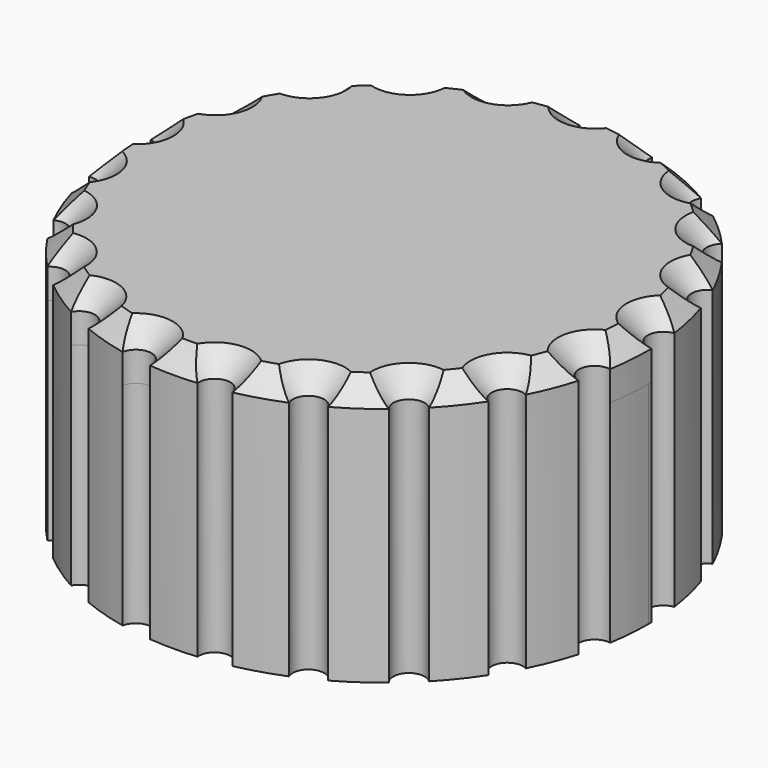
from build123d import *

# Parameters (mm, degrees)
F0_R     = 2.75
F1_DEPTH = 10
F2_R     = 2.75
F3_DEPTH = 2.4
F4_SIZE  = 1
F5_R     = 8
F5_R_2   = 5
F6_DEPTH = 1


with BuildPart() as f1:
    # F0 (on Top) → F1 (new body)
    with BuildSketch(Plane.XY):
        with BuildLine():
            ThreePointArc((12.3302707617, -2.0529059754), (12.4574954249, -1.0299552124), (12.5, 0))
            ThreePointArc((12.5, 0), (12.4996303905, 0.0961254498), (12.4985215837, 0.192245215))
            ThreePointArc((12.4985215837, 0.192245215), (11.7244882678, 0.8786289302), (12.3875760867, 1.6727099859))
            ThreePointArc((12.3875760867, 1.6727099859), (12.1865989023, 2.7815116745), (11.886582066, 3.8677082087))
            ThreePointArc((11.886582066, 3.8677082087), (10.9446217269, 4.2954474963), (11.3441909144, 5.2496983245))
            ThreePointArc((11.3441909144, 5.2496983245), (10.8253175473, 6.25), (10.2184675684, 7.199508355))
            ThreePointArc((10.2184675684, 7.199508355), (9.1922775159, 7.3305967021), (9.2928245962, 8.360227929))
            ThreePointArc((9.2928245962, 8.360227929), (8.5021592221, 9.1631483979), (7.6423973843, 9.8916005894))
            ThreePointArc((7.6423973843, 9.8916005894), (6.6231591079, 9.7143902212), (6.4157500318, 10.7279145937))
            ThreePointArc((6.4157500318, 10.7279145937), (5.423546739, 11.2621108488), (4.3872666545, 11.7047807029))
            ThreePointArc((4.3872666545, 11.7047807029), (3.465543948, 11.2350175382), (2.9686079219, 12.1423789681))
            ThreePointArc((2.9686079219, 12.1423789681), (1.8630283272, 12.3603853278), (0.7423080293, 12.4779396853))
            ThreePointArc((0.7423080293, 12.4779396853), (0, 11.7573642428), (-0.7423080293, 12.4779396853))
            ThreePointArc((-0.7423080293, 12.4779396853), (-1.8630283272, 12.3603853278), (-2.9686079219, 12.1423789681))
            ThreePointArc((-2.9686079219, 12.1423789681), (-2.9485354311, 12.0444238134), (-2.941803923, 11.9446600723))
            ThreePointArc((-2.941803923, 11.9446600723), (-3.5628596128, 11.2120441054), (-4.3872666545, 11.7047807029))
            ThreePointArc((-4.3872666545, 11.7047807029), (-5.423546739, 11.2621108488), (-6.4157500318, 10.7279145937))
            ThreePointArc((-6.4157500318, 10.7279145937), (-6.3286849332, 10.5363149784), (-6.2988649686, 10.3279846789))
            ThreePointArc((-6.2988649686, 10.3279846789), (-6.8120878634, 9.6216719958), (-7.6423973843, 9.8916005894))
            ThreePointArc((-7.6423973843, 9.8916005894), (-8.5021592221, 9.1631483979), (-9.2928245962, 8.360227929))
            ThreePointArc((-9.2928245962, 8.360227929), (-9.0990893217, 8.1058656265), (-9.0302577737, 7.7936225232))
            ThreePointArc((-9.0302577737, 7.7936225232), (-9.4407725777, 7.1293909821), (-10.2184675684, 7.199508355))
            ThreePointArc((-10.2184675684, 7.199508355), (-10.8253175473, 6.25), (-11.3441909144, 5.2496983245))
            ThreePointArc((-11.3441909144, 5.2496983245), (-11.0161809049, 4.9759437166), (-10.8932861009, 4.5667628046))
            ThreePointArc((-10.8932861009, 4.5667628046), (-11.2085118474, 3.9594502404), (-11.886582066, 3.8677082087))
            ThreePointArc((-11.886582066, 3.8677082087), (-12.1865989023, 2.7815116745), (-12.3875760867, 1.6727099859))
            ThreePointArc((-12.3875760867, 1.6727099859), (-11.9132137564, 1.4311044653), (-11.7224117076, 0.9341261698))
            ThreePointArc((-11.7224117076, 0.9341261698), (-11.9518960299, 0.3972989418), (-12.4985215837, 0.192245215))
            ThreePointArc((-12.4985215837, 0.192245215), (-12.4650474648, -0.9341261698), (-12.3302707617, -2.0529059754))
            ThreePointArc((-12.3302707617, -2.0529059754), (-11.7149994919, -2.2078376695), (-11.4439631451, -2.7815116745))
            ThreePointArc((-11.4439631451, -2.7815116745), (-11.5991689984, -3.2358617331), (-11.9999126097, -3.5002996098))
            ThreePointArc((-11.9999126097, -3.5002996098), (-11.6359218581, -4.5667628046), (-11.177366769, -5.5961122319))
            ThreePointArc((-11.177366769, -5.5961122319), (-10.4444871864, -5.6124452149), (-10.0826817901, -6.25))
            ThreePointArc((-10.0826817901, -6.25), (-10.1767313877, -6.6117234598), (-10.4350587397, -6.8818274534))
            ThreePointArc((-10.4350587397, -6.8818274534), (-9.7728935309, -7.7936225232), (-9.0313046878, -8.6420793583))
            ThreePointArc((-9.0313046878, -8.6420793583), (-8.2206050317, -8.4759547529), (-7.759523465, -9.1631483979))
            ThreePointArc((-7.759523465, -9.1631483979), (-7.8069051499, -9.4241649545), (-7.9430041071, -9.6518747274))
            ThreePointArc((-7.9430041071, -9.6518747274), (-7.0415007258, -10.3279846789), (-6.0827715519, -10.9201598087))
            ThreePointArc((-6.0827715519, -10.9201598087), (-5.2475581744, -10.5406291145), (-4.6809109818, -11.2621108488))
            ThreePointArc((-4.6809109818, -11.2621108488), (-4.6971555811, -11.4165898236), (-4.7451787024, -11.5643105753))
            ThreePointArc((-4.7451787024, -11.5643105753), (-3.6844396801, -11.9446600723), (-2.5937574698, -12.2279361377))
            ThreePointArc((-2.5937574698, -12.2279361377), (-1.7965366822, -11.6207322139), (-1.12039257, -12.3603853278))
            ThreePointArc((-1.12039257, -12.3603853278), (-1.121726462, -12.4048759158), (-1.125723346, -12.4492066795))
            ThreePointArc((-1.125723346, -12.4492066795), (0, -12.5), (1.125723346, -12.4492066795))
            ThreePointArc((1.125723346, -12.4492066795), (1.752344211, -11.6260441985), (2.5937574698, -12.2279361377))
            ThreePointArc((2.5937574698, -12.2279361377), (3.6844396801, -11.9446600723), (4.7451787024, -11.5643105753))
            ThreePointArc((4.7451787024, -11.5643105753), (5.1013291598, -10.5930191514), (6.0827715519, -10.9201598087))
            ThreePointArc((6.0827715519, -10.9201598087), (7.0415007258, -10.3279846789), (7.9430041071, -9.6518747274))
            ThreePointArc((7.9430041071, -9.6518747274), (7.997038626, -8.618757866), (9.0313046878, -8.6420793583))
            ThreePointArc((9.0313046878, -8.6420793583), (9.7728935309, -7.7936225232), (10.4350587397, -6.8818274534))
            ThreePointArc((10.4350587397, -6.8818274534), (10.1821761158, -5.8786821214), (11.177366769, -5.5961122319))
            ThreePointArc((11.177366769, -5.5961122319), (11.6359218581, -4.5667628046), (11.9999126097, -3.5002996098))
            ThreePointArc((11.9999126097, -3.5002996098), (11.462582574, -2.6162596722), (12.3302707617, -2.0529059754))
        make_face()
        Circle(F0_R, mode=Mode.SUBTRACT)
    extrude(amount=F1_DEPTH)

    # F2 (on face) → F3 (join)
    with BuildSketch(Plane.XY.offset(10)):
        with BuildLine():
            ThreePointArc((6.4157500318, 10.7279145937), (5.423546739, 11.2621108488), (4.3872666545, 11.7047807029))
            ThreePointArc((4.3872666545, 11.7047807029), (3.465543948, 11.2350175382), (2.9686079219, 12.1423789681))
            ThreePointArc((2.9686079219, 12.1423789681), (1.8630283272, 12.3603853278), (0.7423080293, 12.4779396853))
            ThreePointArc((0.7423080293, 12.4779396853), (0, 11.7573642428), (-0.7423080293, 12.4779396853))
            ThreePointArc((-0.7423080293, 12.4779396853), (-1.8630283272, 12.3603853278), (-2.9686079219, 12.1423789681))
            ThreePointArc((-2.9686079219, 12.1423789681), (-3.465543948, 11.2350175382), (-4.3872666545, 11.7047807029))
            ThreePointArc((-4.3872666545, 11.7047807029), (-5.423546739, 11.2621108488), (-6.4157500318, 10.7279145937))
            ThreePointArc((-6.4157500318, 10.7279145937), (-6.6231591079, 9.7143902212), (-7.6423973843, 9.8916005894))
            ThreePointArc((-7.6423973843, 9.8916005894), (-8.5021592221, 9.1631483979), (-9.2928245962, 8.360227929))
            ThreePointArc((-9.2928245962, 8.360227929), (-9.1922775159, 7.3305967021), (-10.2184675684, 7.199508355))
            ThreePointArc((-10.2184675684, 7.199508355), (-10.8253175473, 6.25), (-11.3441909144, 5.2496983245))
            ThreePointArc((-11.3441909144, 5.2496983245), (-10.9446217269, 4.2954474963), (-11.886582066, 3.8677082087))
            ThreePointArc((-11.886582066, 3.8677082087), (-12.1865989023, 2.7815116745), (-12.3875760867, 1.6727099859))
            ThreePointArc((-12.3875760867, 1.6727099859), (-11.7244882678, 0.8786289302), (-12.4985215837, 0.192245215))
            ThreePointArc((-12.4985215837, 0.192245215), (-12.4650474648, -0.9341261698), (-12.3302707617, -2.0529059754))
            ThreePointArc((-12.3302707617, -2.0529059754), (-11.462582574, -2.6162596722), (-11.9999126097, -3.5002996098))
            ThreePointArc((-11.9999126097, -3.5002996098), (-11.6359218581, -4.5667628046), (-11.177366769, -5.5961122319))
            ThreePointArc((-11.177366769, -5.5961122319), (-10.1821761158, -5.8786821214), (-10.4350587397, -6.8818274534))
            ThreePointArc((-10.4350587397, -6.8818274534), (-9.7728935309, -7.7936225232), (-9.0313046878, -8.6420793583))
            ThreePointArc((-9.0313046878, -8.6420793583), (-7.997038626, -8.618757866), (-7.9430041071, -9.6518747274))
            ThreePointArc((-7.9430041071, -9.6518747274), (-7.0415007258, -10.3279846789), (-6.0827715519, -10.9201598087))
            ThreePointArc((-6.0827715519, -10.9201598087), (-5.1013291598, -10.5930191514), (-4.7451787024, -11.5643105753))
            ThreePointArc((-4.7451787024, -11.5643105753), (-3.6844396801, -11.9446600723), (-2.5937574698, -12.2279361377))
            ThreePointArc((-2.5937574698, -12.2279361377), (-1.752344211, -11.6260441985), (-1.125723346, -12.4492066795))
            ThreePointArc((-1.125723346, -12.4492066795), (0, -12.5), (1.125723346, -12.4492066795))
            ThreePointArc((1.125723346, -12.4492066795), (1.752344211, -11.6260441985), (2.5937574698, -12.2279361377))
            ThreePointArc((2.5937574698, -12.2279361377), (3.6844396801, -11.9446600723), (4.7451787024, -11.5643105753))
            ThreePointArc((4.7451787024, -11.5643105753), (5.1013291598, -10.5930191514), (6.0827715519, -10.9201598087))
            ThreePointArc((6.0827715519, -10.9201598087), (7.0415007258, -10.3279846789), (7.9430041071, -9.6518747274))
            ThreePointArc((7.9430041071, -9.6518747274), (7.997038626, -8.618757866), (9.0313046878, -8.6420793583))
            ThreePointArc((9.0313046878, -8.6420793583), (9.7728935309, -7.7936225232), (10.4350587397, -6.8818274534))
            ThreePointArc((10.4350587397, -6.8818274534), (10.1821761158, -5.8786821214), (11.177366769, -5.5961122319))
            ThreePointArc((11.177366769, -5.5961122319), (11.6359218581, -4.5667628046), (11.9999126097, -3.5002996098))
            ThreePointArc((11.9999126097, -3.5002996098), (11.462582574, -2.6162596722), (12.3302707617, -2.0529059754))
            ThreePointArc((12.3302707617, -2.0529059754), (12.4650474648, -0.9341261698), (12.4985215837, 0.192245215))
            ThreePointArc((12.4985215837, 0.192245215), (11.7244882678, 0.8786289302), (12.3875760867, 1.6727099859))
            ThreePointArc((12.3875760867, 1.6727099859), (12.1865989023, 2.7815116745), (11.886582066, 3.8677082087))
            ThreePointArc((11.886582066, 3.8677082087), (10.9446217269, 4.2954474963), (11.3441909144, 5.2496983245))
            ThreePointArc((11.3441909144, 5.2496983245), (10.8253175473, 6.25), (10.2184675684, 7.199508355))
            ThreePointArc((10.2184675684, 7.199508355), (9.1922775159, 7.3305967021), (9.2928245962, 8.360227929))
            ThreePointArc((9.2928245962, 8.360227929), (8.5021592221, 9.1631483979), (7.6423973843, 9.8916005894))
            ThreePointArc((7.6423973843, 9.8916005894), (6.6231591079, 9.7143902212), (6.4157500318, 10.7279145937))
        make_face()
        Circle(F2_R, mode=Mode.SUBTRACT)
        Circle(F2_R)
    extrude(amount=F3_DEPTH)

    # F4
    f4_edges = [f1.edges().sort_by_distance(p)[0] for p in [
        (10.825318, 6.25, 12.4),
        (9.192278, 7.330597, 12.4),
        (8.502159, 9.163148, 12.4),
        (6.623159, 9.71439, 12.4),
        (5.423547, 11.262111, 12.4),
        (3.465544, 11.235018, 12.4),
        (1.863028, 12.360385, 12.4),
        (0, 11.757364, 12.4),
        (-1.863028, 12.360385, 12.4),
        (-3.465544, 11.235018, 12.4),
        (-5.423547, 11.262111, 12.4),
        (-6.623159, 9.71439, 12.4),
        (-8.502159, 9.163148, 12.4),
        (-9.192278, 7.330597, 12.4),
        (-10.825318, 6.25, 12.4),
        (-10.944622, 4.295447, 12.4),
        (-12.186599, 2.781512, 12.4),
        (-11.724488, 0.878629, 12.4),
        (-12.465047, -0.934126, 12.4),
        (-11.462583, -2.61626, 12.4),
        (-11.635922, -4.566763, 12.4),
        (-10.182176, -5.878682, 12.4),
        (-9.772894, -7.793623, 12.4),
        (-7.997039, -8.618758, 12.4),
        (-7.041501, -10.327985, 12.4),
        (-5.101329, -10.593019, 12.4),
        (-3.68444, -11.94466, 12.4),
        (-1.752344, -11.626044, 12.4),
        (0, -12.5, 12.4),
        (1.752344, -11.626044, 12.4),
        (3.68444, -11.94466, 12.4),
        (5.101329, -10.593019, 12.4),
        (7.041501, -10.327985, 12.4),
        (7.997039, -8.618758, 12.4),
        (9.772894, -7.793623, 12.4),
        (10.182176, -5.878682, 12.4),
        (11.635922, -4.566763, 12.4),
        (11.462583, -2.61626, 12.4),
        (12.465047, -0.934126, 12.4),
        (11.724488, 0.878629, 12.4),
        (12.186599, 2.781512, 12.4),
        (10.944622, 4.295447, 12.4),
    ]]
    chamfer(f4_edges, length=F4_SIZE)

    # F5 (on face) → F6 (join)
    with BuildSketch(Plane.XY):
        Circle(F5_R)
        Circle(F5_R_2, mode=Mode.SUBTRACT)
    extrude(amount=-F6_DEPTH)


solid = f1.part
